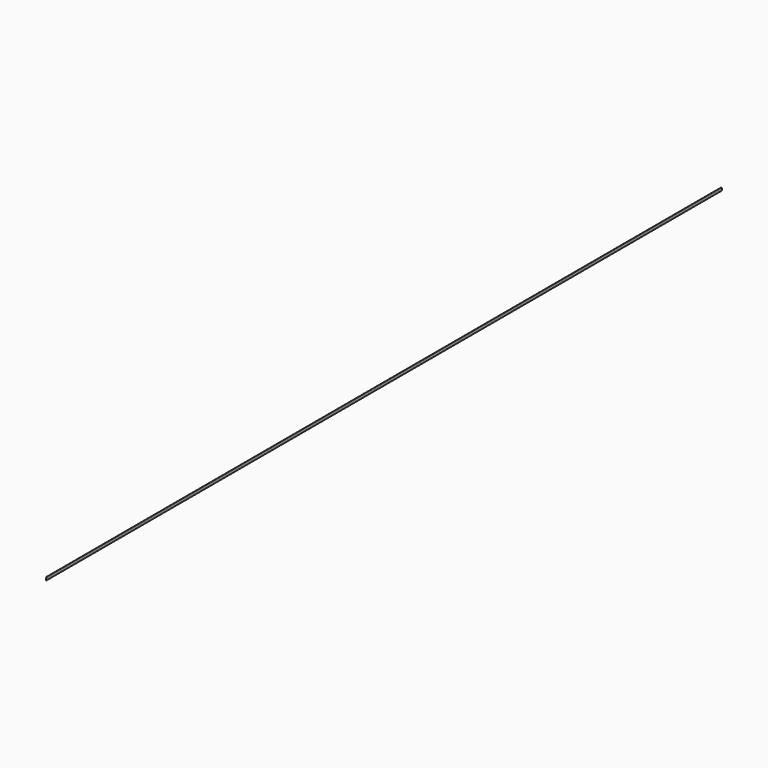
from build123d import *

# Parameters (mm, degrees)
F0_W     = 1.5875
F0_H     = 30.48
F1_DEPTH = 8547.1
F2_W     = 1.5875
F2_H     = 7.14375
F3_DEPTH = 6.35


with BuildPart() as f1:
    # F0 (on Front) → F1 (new body)
    with BuildSketch(Plane.XZ):
        with Locations((0.79375, -15.24)):
            Rectangle(F0_W, F0_H)
    extrude(amount=F1_DEPTH)

    # F2 (on face) → F3 (cut)
    with BuildSketch(Plane.XY):
        with Locations((0.79375, -8543.528125)):
            Rectangle(F2_W, F2_H)
        with Locations((0.79375, -3.571875)):
            Rectangle(F2_W, F2_H)
    extrude(amount=-F3_DEPTH, mode=Mode.SUBTRACT)


solid = f1.part
